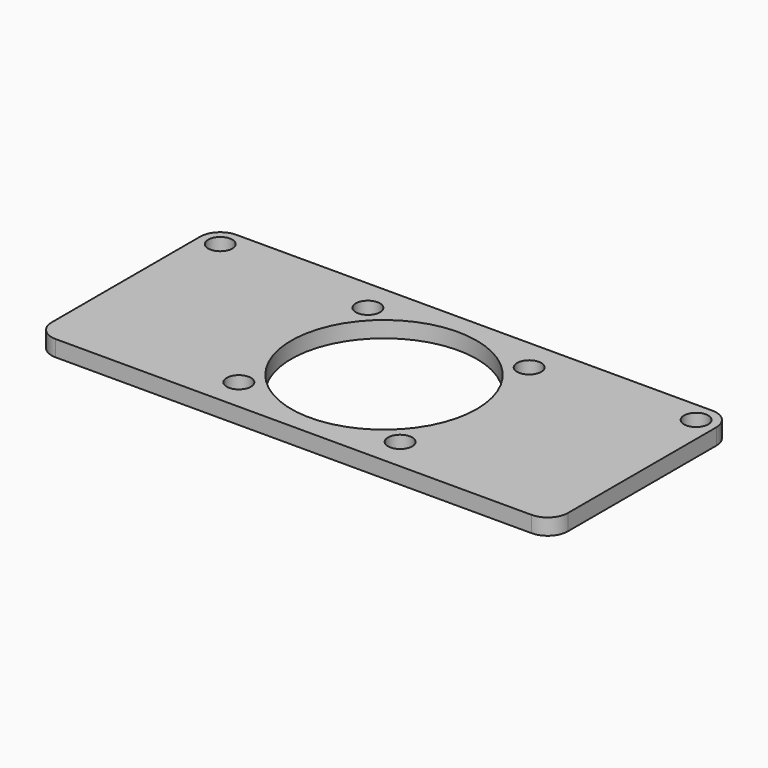
from build123d import *

# Parameters (mm, degrees)
F0_R     = 1.5
F0_R_2   = 11.5
F1_DEPTH = 2
F2_DEPTH = 0.3


with BuildPart() as f1:
    # F0 (on Top) → F1 (new body)
    with BuildSketch(Plane.XY):
        with BuildLine():
            ThreePointArc((32, 11.5), (31.267767, 13.267767), (29.5, 14))
            Line((29.5, 14), (-29.5, 14))
            ThreePointArc((-29.5, 14), (-31.267767, 13.267767), (-32, 11.5))
            Line((-32, 11.5), (-32, -11.5))
            ThreePointArc((-32, -11.5), (-31.267767, -13.267767), (-29.5, -14))
            Line((-29.5, -14), (29.5, -14))
            ThreePointArc((29.5, -14), (31.267767, -13.267767), (32, -11.5))
            Line((32, -11.5), (32, 11.5))
        make_face()
        with Locations((-10, -10)):
            Circle(F0_R, mode=Mode.SUBTRACT)
        with Locations((10, -10)):
            Circle(F0_R, mode=Mode.SUBTRACT)
        with Locations((-29.5, 11.5)):
            Circle(F0_R, mode=Mode.SUBTRACT)
        with Locations((-10, 10)):
            Circle(F0_R, mode=Mode.SUBTRACT)
        Circle(F0_R_2, mode=Mode.SUBTRACT)
        with Locations((10, 10)):
            Circle(F0_R, mode=Mode.SUBTRACT)
        with Locations((29.5, 11.5)):
            Circle(F0_R, mode=Mode.SUBTRACT)
    extrude(amount=F1_DEPTH)

    # F0 (on Top) → F2 (join)
    with BuildSketch(Plane.XY):
        with Locations((-29.5, 11.5)):
            Circle(F0_R)
        with Locations((-10, 10)):
            Circle(F0_R)
        with Locations((10, 10)):
            Circle(F0_R)
        with Locations((29.5, 11.5)):
            Circle(F0_R)
        with Locations((10, -10)):
            Circle(F0_R)
        with Locations((-10, -10)):
            Circle(F0_R)
    extrude(amount=F2_DEPTH)


solid = f1.part
